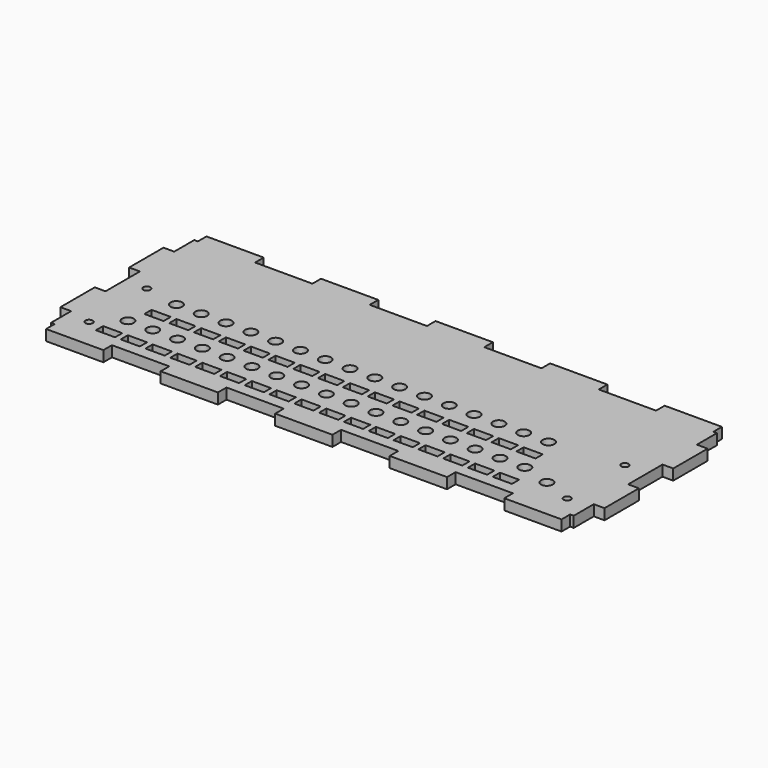
from build123d import *

# Parameters (mm, degrees)
F0_W      = 241.3
F0_H      = 88.9
F1_DEPTH  = 4.7625
F2_R      = 2.6
F3_DEPTH  = 25.4
F4_W      = 8.5
F4_H      = 4
F5_DEPTH  = 25.4
F6_W      = 25.4
F6_H      = 4.7625
F7_DEPTH  = 25.4
F8_R      = 1.6
F9_DEPTH  = 25.4
F10_W     = 4.7625
F10_H     = 19.05
F11_DEPTH = 25.4


with BuildPart() as f1:
    # F0 (on Top) → F1 (new body)
    with BuildSketch(Plane.XY):
        Rectangle(F0_W, F0_H)
    extrude(amount=F1_DEPTH)

    # F2 (on face) → F3 (cut)
    with BuildSketch(Plane.XY.offset(4.7625)):
        with Locations((-96, -21.95)):
            Circle(F2_R)
        with Locations((-85, -21.95)):
            Circle(F2_R)
        with Locations((-74, -21.95)):
            Circle(F2_R)
        with Locations((-63, -21.95)):
            Circle(F2_R)
        with Locations((-52, -21.95)):
            Circle(F2_R)
        with Locations((-41, -21.95)):
            Circle(F2_R)
        with Locations((-30, -21.95)):
            Circle(F2_R)
        with Locations((-19, -21.95)):
            Circle(F2_R)
        with Locations((-8, -21.95)):
            Circle(F2_R)
        with Locations((3, -21.95)):
            Circle(F2_R)
        with Locations((14, -21.95)):
            Circle(F2_R)
        with Locations((25, -21.95)):
            Circle(F2_R)
        with Locations((36, -21.95)):
            Circle(F2_R)
        with Locations((47, -21.95)):
            Circle(F2_R)
        with Locations((58, -21.95)):
            Circle(F2_R)
        with Locations((69, -21.95)):
            Circle(F2_R)
        with Locations((80, -21.95)):
            Circle(F2_R)
        with Locations((93, -25.95)):
            Circle(F2_R)
        with Locations((-90.5, -1.95)):
            Circle(F2_R)
        with Locations((-79.5, -1.95)):
            Circle(F2_R)
        with Locations((-68.5, -1.95)):
            Circle(F2_R)
        with Locations((-57.5, -1.95)):
            Circle(F2_R)
        with Locations((-46.5, -1.95)):
            Circle(F2_R)
        with Locations((-35.5, -1.95)):
            Circle(F2_R)
        with Locations((-24.5, -1.95)):
            Circle(F2_R)
        with Locations((-13.5, -1.95)):
            Circle(F2_R)
        with Locations((-2.5, -1.95)):
            Circle(F2_R)
        with Locations((8.5, -1.95)):
            Circle(F2_R)
        with Locations((19.5, -1.95)):
            Circle(F2_R)
        with Locations((30.5, -1.95)):
            Circle(F2_R)
        with Locations((41.5, -1.95)):
            Circle(F2_R)
        with Locations((52.5, -1.95)):
            Circle(F2_R)
        with Locations((63.5, -1.95)):
            Circle(F2_R)
        with Locations((74.5, -1.95)):
            Circle(F2_R)
    extrude(amount=-F3_DEPTH, mode=Mode.SUBTRACT)

    # F4 (on face) → F5 (cut)
    with BuildSketch(Plane.XY.offset(4.7625)):
        with Locations((-90.5, -12.41)):
            Rectangle(F4_W, F4_H)
        with Locations((-79.5, -12.41)):
            Rectangle(F4_W, F4_H)
        with Locations((-68.5, -12.41)):
            Rectangle(F4_W, F4_H)
        with Locations((-57.5, -12.41)):
            Rectangle(F4_W, F4_H)
        with Locations((-46.5, -12.41)):
            Rectangle(F4_W, F4_H)
        with Locations((-35.5, -12.41)):
            Rectangle(F4_W, F4_H)
        with Locations((-24.5, -12.41)):
            Rectangle(F4_W, F4_H)
        with Locations((-13.5, -12.41)):
            Rectangle(F4_W, F4_H)
        with Locations((-2.5, -12.41)):
            Rectangle(F4_W, F4_H)
        with Locations((8.5, -12.41)):
            Rectangle(F4_W, F4_H)
        with Locations((19.5, -12.41)):
            Rectangle(F4_W, F4_H)
        with Locations((30.5, -12.41)):
            Rectangle(F4_W, F4_H)
        with Locations((41.5, -12.41)):
            Rectangle(F4_W, F4_H)
        with Locations((52.5, -12.41)):
            Rectangle(F4_W, F4_H)
        with Locations((63.5, -12.41)):
            Rectangle(F4_W, F4_H)
        with Locations((74.5, -12.41)):
            Rectangle(F4_W, F4_H)
        with Locations((-96, -32.41)):
            Rectangle(F4_W, F4_H)
        with Locations((-85, -32.41)):
            Rectangle(F4_W, F4_H)
        with Locations((-74, -32.41)):
            Rectangle(F4_W, F4_H)
        with Locations((-63, -32.41)):
            Rectangle(F4_W, F4_H)
        with Locations((-52, -32.41)):
            Rectangle(F4_W, F4_H)
        with Locations((-41, -32.41)):
            Rectangle(F4_W, F4_H)
        with Locations((-30, -32.41)):
            Rectangle(F4_W, F4_H)
        with Locations((-19, -32.41)):
            Rectangle(F4_W, F4_H)
        with Locations((-8, -32.41)):
            Rectangle(F4_W, F4_H)
        with Locations((3, -32.41)):
            Rectangle(F4_W, F4_H)
        with Locations((14, -32.41)):
            Rectangle(F4_W, F4_H)
        with Locations((25, -32.41)):
            Rectangle(F4_W, F4_H)
        with Locations((36, -32.41)):
            Rectangle(F4_W, F4_H)
        with Locations((47, -32.41)):
            Rectangle(F4_W, F4_H)
        with Locations((58, -32.41)):
            Rectangle(F4_W, F4_H)
        with Locations((69, -32.41)):
            Rectangle(F4_W, F4_H)
        with Locations((80, -32.41)):
            Rectangle(F4_W, F4_H)
    extrude(amount=-F5_DEPTH, mode=Mode.SUBTRACT)

    # F6 (on face) → F7 (cut)
    with BuildSketch(Plane.XY.offset(4.7625)):
        with Locations((-25.4, 42.06875)):
            Rectangle(F6_W, F6_H)
        with Locations((-76.2, 42.06875)):
            Rectangle(F6_W, F6_H)
        with Locations((-127, 42.06875)):
            Rectangle(F6_W, F6_H)
        with Locations((25.4, 42.06875)):
            Rectangle(F6_W, F6_H)
        with Locations((76.2, 42.06875)):
            Rectangle(F6_W, F6_H)
        with Locations((127, 42.06875)):
            Rectangle(F6_W, F6_H)
        with Locations((127, -42.06875)):
            Rectangle(F6_W, F6_H)
        with Locations((-76.2, -42.06875)):
            Rectangle(F6_W, F6_H)
        with Locations((76.2, -42.06875)):
            Rectangle(F6_W, F6_H)
        with Locations((-25.4, -42.06875)):
            Rectangle(F6_W, F6_H)
        with Locations((25.4, -42.06875)):
            Rectangle(F6_W, F6_H)
        with Locations((-127, -42.06875)):
            Rectangle(F6_W, F6_H)
    extrude(amount=-F7_DEPTH, mode=Mode.SUBTRACT)

    # F8 (on face) → F9 (cut)
    with BuildSketch(Plane.XY.offset(4.7625)):
        with Locations((-106, -30.95)):
            Circle(F8_R)
        with Locations((-106, 1.05)):
            Circle(F8_R)
        with Locations((106, -30.95)):
            Circle(F8_R)
        with Locations((106, 1.05)):
            Circle(F8_R)
    extrude(amount=-F9_DEPTH, mode=Mode.SUBTRACT)

    # F10 (on face) → F11 (cut)
    with BuildSketch(Plane.XY.offset(4.7625)):
        with Locations((-118.26875, 0)):
            Rectangle(F10_W, F10_H)
        with Locations((-118.26875, 38.1)):
            Rectangle(F10_W, F10_H)
        with Locations((-118.26875, -38.1)):
            Rectangle(F10_W, F10_H)
        with Locations((118.26875, -38.1)):
            Rectangle(F10_W, F10_H)
        with Locations((118.26875, 0)):
            Rectangle(F10_W, F10_H)
        with Locations((118.26875, 38.1)):
            Rectangle(F10_W, F10_H)
    extrude(amount=-F11_DEPTH, mode=Mode.SUBTRACT)


solid = f1.part
